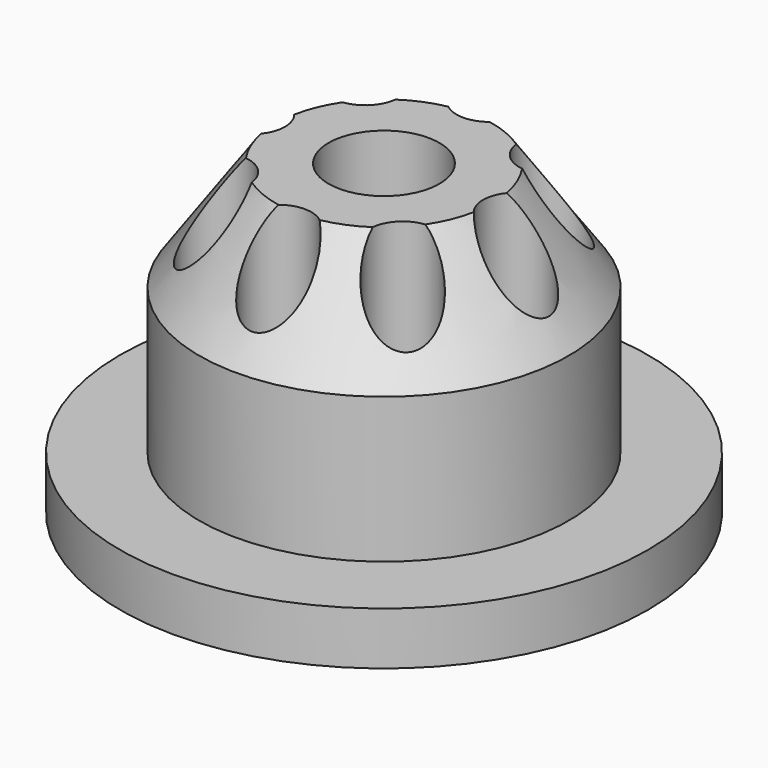
from build123d import *

# Parameters (mm, degrees)
F2_R     = 2.5
F3_DEPTH = 25


with BuildPart() as f1:
    # F0 (on Front) → F1 (revolve)
    with BuildSketch(Plane.XZ):
        Polygon((-20, 0), (-4.2, 0), (-4.2, 23.283258), (-8.2, 23.283258), (-14, 15), (-14, 4), (-20, 4), align=None)
    revolve(axis=Axis((0, 0, 31.447405), (0, 0, 1)))

    # F2 (on Top) → F3 (cut)
    with BuildSketch(Plane.XY):
        with Locations((0, -10)):
            Circle(F2_R)
        with Locations((7.071068, -7.071068)):
            Circle(F2_R)
        with Locations((10, 0)):
            Circle(F2_R)
        with Locations((7.071068, 7.071068)):
            Circle(F2_R)
        with Locations((0, 10)):
            Circle(F2_R)
        with Locations((-7.071068, 7.071068)):
            Circle(F2_R)
        with Locations((-10, 0)):
            Circle(F2_R)
        with Locations((-7.071068, -7.071068)):
            Circle(F2_R)
    extrude(amount=F3_DEPTH, mode=Mode.SUBTRACT)


solid = f1.part
